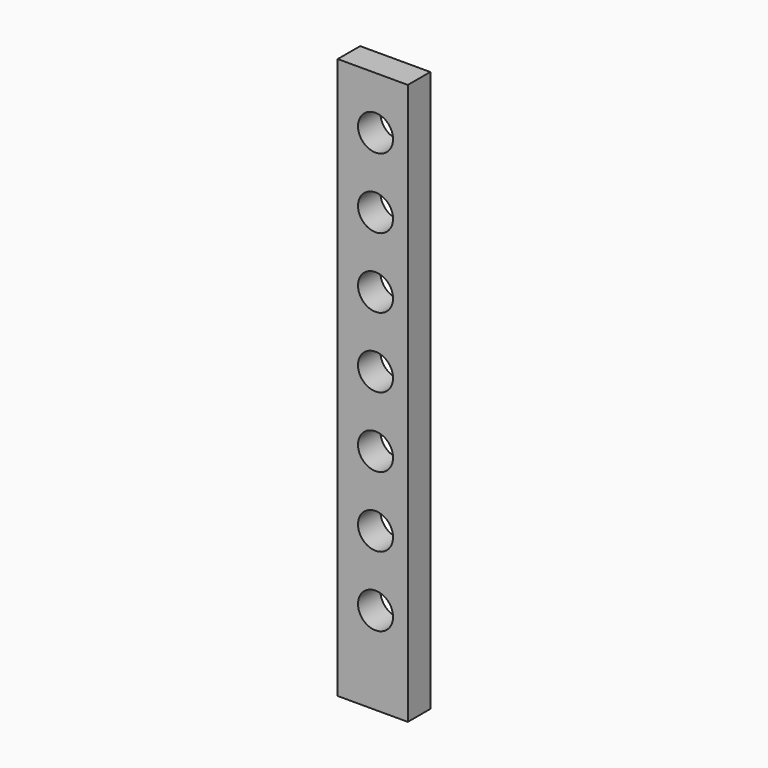
from build123d import *

# Parameters (mm, degrees)
F0_W     = 12.7
F0_H     = 101.6
F0_R     = 3.175
F1_DEPTH = 5.08


with BuildPart() as f1:
    # F0 (on Front) → F1 (new body)
    with BuildSketch(Plane.XZ):
        with Locations((-3.078254, -3.391214)):
            Rectangle(F0_W, F0_H)
        with Locations((-2.579293, -38.316214)):
            Circle(F0_R, mode=Mode.SUBTRACT)
        with Locations((-2.579293, -25.616214)):
            Circle(F0_R, mode=Mode.SUBTRACT)
        with Locations((-2.579293, -12.916214)):
            Circle(F0_R, mode=Mode.SUBTRACT)
        with Locations((-2.579293, -0.216214)):
            Circle(F0_R, mode=Mode.SUBTRACT)
        with Locations((-2.579293, 12.483786)):
            Circle(F0_R, mode=Mode.SUBTRACT)
        with Locations((-2.579293, 25.183786)):
            Circle(F0_R, mode=Mode.SUBTRACT)
        with Locations((-2.579293, 37.883786)):
            Circle(F0_R, mode=Mode.SUBTRACT)
    extrude(amount=F1_DEPTH)


solid = f1.part
